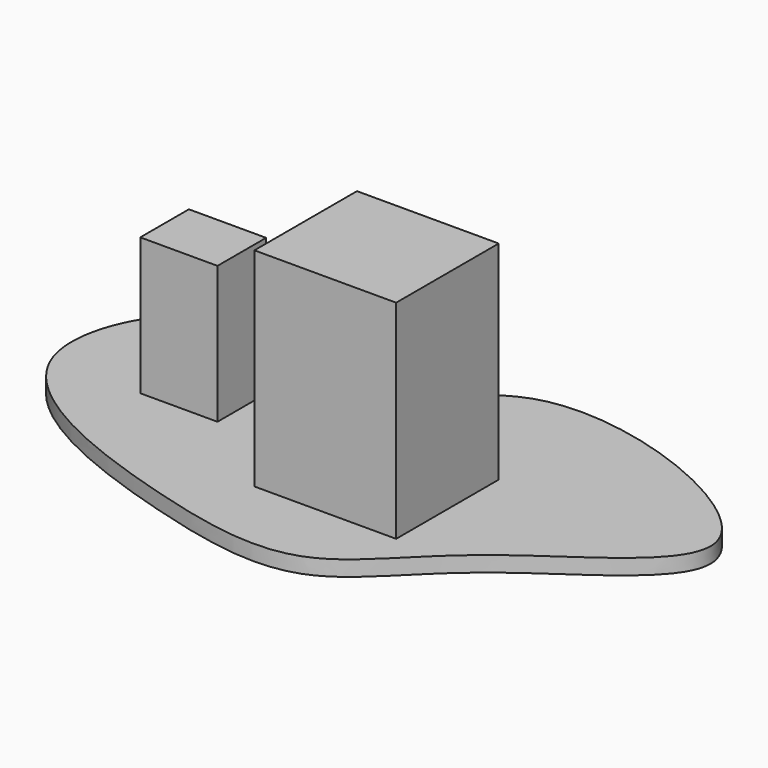
from build123d import *

# Parameters (mm, degrees)
F0_W     = 59.2442452908
F0_H     = 86.8994742632
F1_DEPTH = 53.58551
F2_W     = 32.2711616755
F2_H     = 57.3722757399
F3_DEPTH = 25.4
F4_W     = 32.2711616755
F4_H     = 25.4
F4_W_2   = 59.2442452908
F4_H_2   = 53.58551
F5_DEPTH = 6.45768


with BuildPart() as f1:
    # F0 (on Front) → F1 (new body)
    with BuildSketch(Plane.XZ):
        with Locations((29.6221226454, 43.4497371316)):
            Rectangle(F0_W, F0_H)
    extrude(amount=F1_DEPTH)



with BuildPart() as f3:
    # F2 (on Front) → F3 (new body)
    with BuildSketch(Plane.XZ):
        with Locations((-54.119028151, 28.68613787)):
            Rectangle(F2_W, F2_H)
    extrude(amount=F3_DEPTH)


with BuildPart() as f1_1:
    add(f1.part)

    add(f3.part)  # F5 merges F3
    # F4 (on face) → F5 (join)
    with BuildSketch(Plane(origin=(0, 0, 0), x_dir=(1, 0, 0), z_dir=(0, 0, -1))):
        with BuildLine():
            add(Edge.make_bspline(
                [(-21.9703670591, 76.3727575541), (6.0006067765, 84.5706837974), (48.8939489341, 92.740552183), (82.2950265666, 40.4636833627), (189.2732342742, -11.7593615973), (22.2865377101, -80.9884135333), (-5.5735611462, 4.7958526844), (-83.7690629855, -59.8091662524), (-135.3205861901, 36.9469152542), (-56.736577739, 66.1832363529), (-21.9703670591, 76.3727575541)],
                knots=[0, 0, 0, 0, 0.1177911746, 0.2302007419, 0.3543006643, 0.5088619105, 0.6203626236, 0.7389379751, 0.8535927703, 1, 1, 1, 1], degree=3))
        make_face()
        with Locations((-54.119028151, 12.7)):
            Rectangle(F4_W, F4_H, mode=Mode.SUBTRACT)
        with Locations((29.6221226454, 26.792755)):
            Rectangle(F4_W_2, F4_H_2, mode=Mode.SUBTRACT)
        with Locations((29.6221226454, 26.792755)):
            Rectangle(F4_W_2, F4_H_2)
        with Locations((-54.119028151, 12.7)):
            Rectangle(F4_W, F4_H)
    extrude(amount=F5_DEPTH)


solid = f1_1.part
